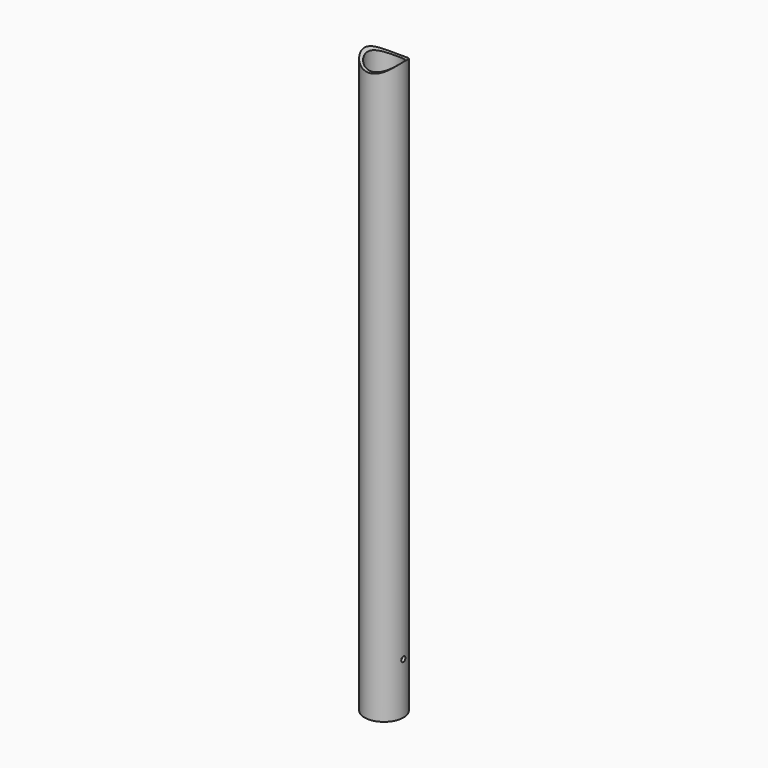
from build123d import *

# Parameters (mm, degrees)
F0_R     = 18.9
F0_R_2   = 15.9
F1_DEPTH = 580
F5_R     = 27
F6_DEPTH = 50
F7_R     = 2.5
F8_DEPTH = 18.901


with BuildPart() as f1:
    # F0 (on Top) → F1 (new body)
    with BuildSketch(Plane.XY):
        Circle(F0_R)
        Circle(F0_R_2, mode=Mode.SUBTRACT)
    extrude(amount=F1_DEPTH)

    # F5 (on face) → F6 (cut, symmetric)
    with BuildSketch(Plane.XZ):
        with Locations((0, 580)):
            Circle(F5_R)
    extrude(amount=F6_DEPTH, both=True, mode=Mode.SUBTRACT)

    # F7 (on Right) → F8 (cut, through all)
    with BuildSketch(Plane.YZ):
        with Locations((0, 50)):
            Circle(F7_R)
    extrude(amount=F8_DEPTH, mode=Mode.SUBTRACT)


solid = f1.part
